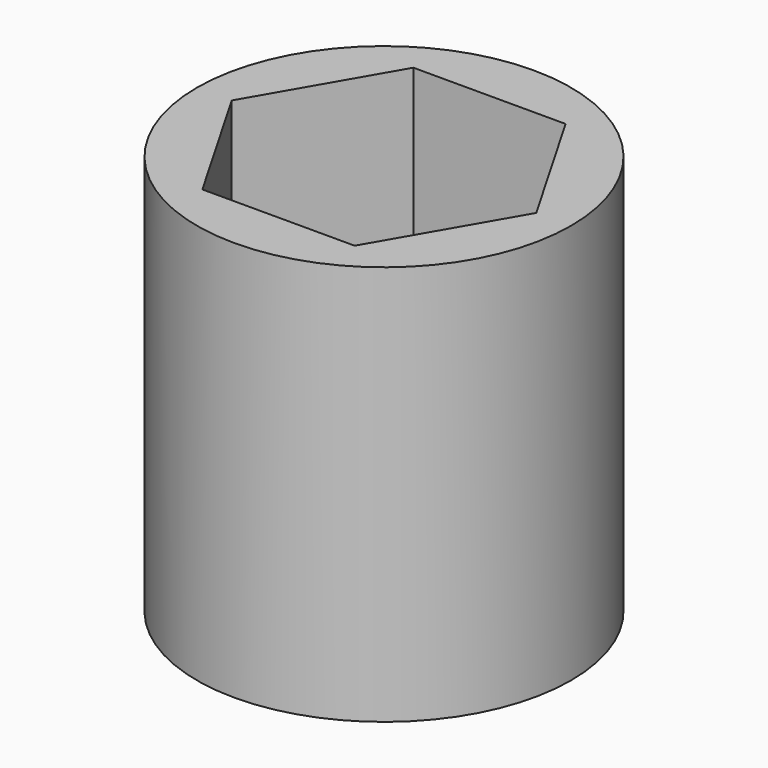
from build123d import *

# Parameters (mm, degrees)
SKETCH_R     = 4.3
PAD_DEPTH    = 9.2
POCKET_DEPTH = 4


with BuildPart() as part:
    # Sketch → Pad (new body)
    with BuildSketch(Plane.XY):
        Circle(SKETCH_R)
    extrude(amount=PAD_DEPTH)

    # Sketch003 → Pocket (cut)
    with BuildSketch(Plane.XY.offset(9.2)):
        Polygon((-3.5, 0), (-1.75, -3.031089), (1.75, -3.031089), (3.5, 0), (1.75, 3.031089), (-1.75, 3.031089), align=None)
    extrude(amount=-POCKET_DEPTH, mode=Mode.SUBTRACT)


solid = part.part
